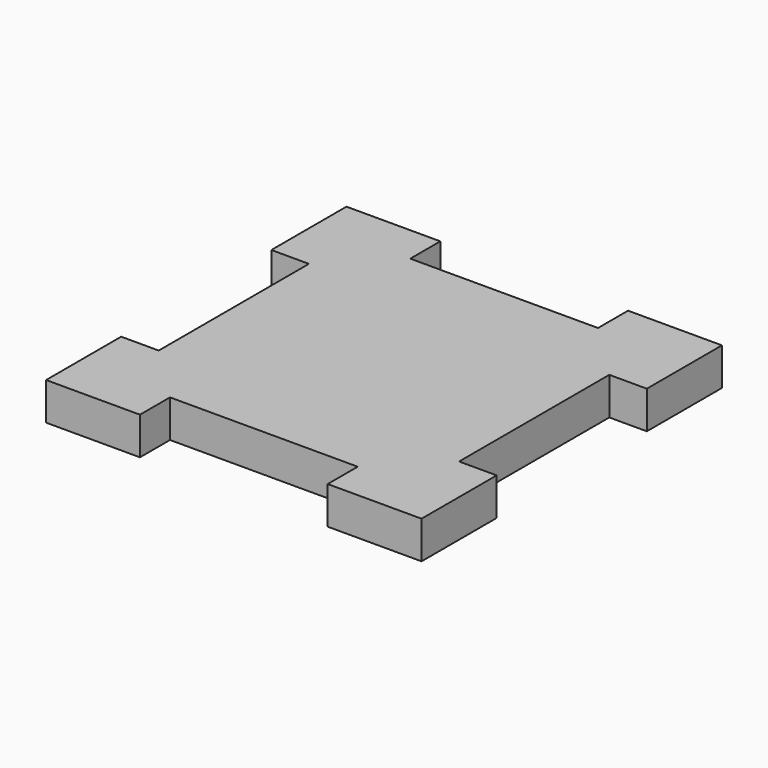
from build123d import *

# Parameters (mm, degrees)
F1_DEPTH = 5.08


with BuildPart() as f1:
    # F0 (on Top) → F1 (new body)
    with BuildSketch(Plane.XY):
        Polygon((-12.7, 0), (0, 0), (0, 12.7), (-5.08, 12.7), (-5.08, 38.1), (0, 38.1), (0, 50.8), (-12.7, 50.8), (-12.7, 45.72), (-38.1, 45.72), (-38.1, 50.8), (-50.8, 50.8), (-50.8, 38.1), (-45.72, 38.1), (-45.72, 12.7), (-50.8, 12.7), (-50.8, 0), (-38.1, 0), (-38.1, 5.08), (-12.7, 5.08), align=None)
    extrude(amount=F1_DEPTH)


solid = f1.part
